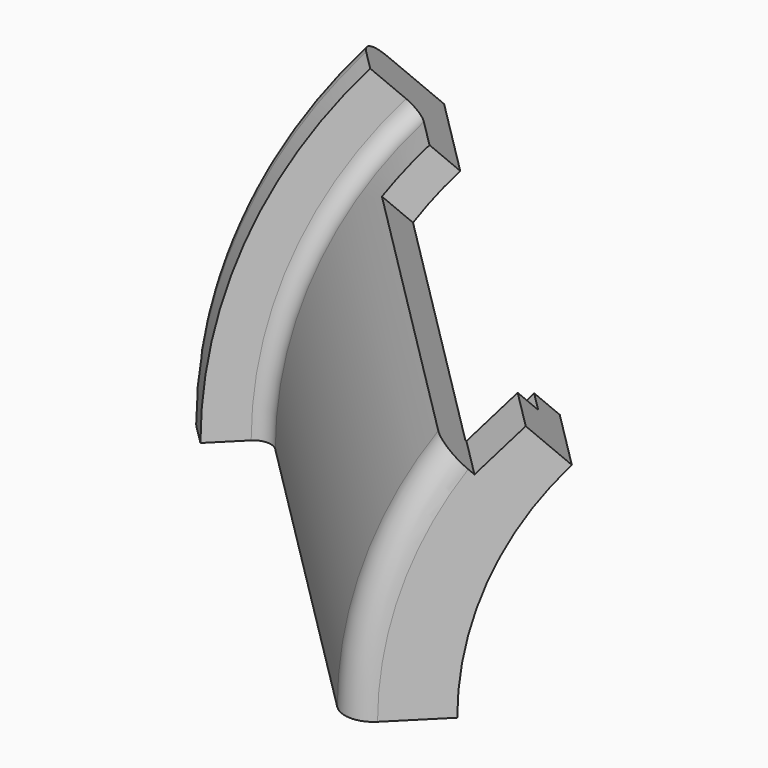
from build123d import *

# Parameters (mm, degrees)
BOX007_W               = 100
BOX007_H               = 100
BOX007_DEPTH           = 100
BOX006_W               = 100
BOX006_H               = 100
BOX006_DEPTH           = 100
BOX006_PLACEMENT_ANGLE = 90
BOX005_W               = 200
BOX005_H               = 200
BOX005_DEPTH           = 100
BOX004_W               = 20
BOX004_H               = 20
BOX004_DEPTH           = 80
BOX003_W               = 20
BOX003_H               = 20
BOX003_DEPTH           = 80
BOX002_W               = 10
BOX002_H               = 25
BOX002_DEPTH           = 35
BOX002_PITCH_ANGLE     = -15
BOX001_W               = 10
BOX001_H               = 25
BOX001_DEPTH           = 35
BOX001_PITCH_ANGLE     = 15
BOX_W                  = 20
BOX_H                  = 25
BOX_DEPTH              = 35
CYLINDER005_R          = 10
CYLINDER005_DEPTH      = 180
CYLINDER005_ROLL_ANGLE = 90
CYLINDER004_R          = 54
CYLINDER004_DEPTH      = 100
CYLINDER003_R          = 59
CYLINDER003_DEPTH      = 10
CYLINDER002_R          = 64
CYLINDER002_DEPTH      = 85
CYLINDER001_R          = 70
CYLINDER001_DEPTH      = 90
CYLINDER_R             = 80
CYLINDER_DEPTH         = 10
FILLET_R               = 3
FILLET001_R            = 5
FILLET002_R            = 5
CUT007_ROLL_ANGLE      = 90
CUT007_PITCH_ANGLE     = 45
CUT007_PLACEMENT_ANGLE = 45
CUT008_ROLL_ANGLE      = -90
CUT008_PITCH_ANGLE     = -45
CUT008_PLACEMENT_ANGLE = 45
CUT010_ROLL_ANGLE      = 90
CUT010_PITCH_ANGLE     = 45
CUT010_PLACEMENT_ANGLE = 45


with BuildPart() as cube004:
    # Box007 → Box007 (new body)
    with BuildSketch(Plane.XY):
        with Locations((50, 50)):
            Rectangle(BOX007_W, BOX007_H)
    extrude(amount=BOX007_DEPTH)


with BuildPart() as cube003:
    # Box006 → Box006 (new body)
    with BuildSketch(Plane.XY):
        with Locations((50, 50)):
            Rectangle(BOX006_W, BOX006_H)
    extrude(amount=BOX006_DEPTH)


with BuildPart() as cube003_1:
    # Box006 placement: moved
    add(cube003.part.rotate(Axis((0, 0, 0), (0, 0, 1)), BOX006_PLACEMENT_ANGLE))


with BuildPart() as cube002:
    # Box005 → Box005 (new body)
    with BuildSketch(Plane(origin=(-70, -120, -100), x_dir=(1, 0, 0), z_dir=(0, 0, 1))):
        with Locations((100, 100)):
            Rectangle(BOX005_W, BOX005_H)
    extrude(amount=BOX005_DEPTH)


with BuildPart() as tab_cut_l:
    # Box004 → Box004 (new body)
    with BuildSketch(Plane(origin=(-83, -10, 20), x_dir=(1, 0, 0), z_dir=(0, 0, 1))):
        with Locations((10, 10)):
            Rectangle(BOX004_W, BOX004_H)
    extrude(amount=BOX004_DEPTH)


with BuildPart() as tab_cut_r:
    # Box003 → Box003 (new body)
    with BuildSketch(Plane(origin=(63, -10, 20), x_dir=(1, 0, 0), z_dir=(0, 0, 1))):
        with Locations((10, 10)):
            Rectangle(BOX003_W, BOX003_H)
    extrude(amount=BOX003_DEPTH)


with BuildPart() as cube001:
    # Box002 → Box002 (new body)
    with BuildSketch(Plane.XY):
        with Locations((5, 12.5)):
            Rectangle(BOX002_W, BOX002_H)
    extrude(amount=BOX002_DEPTH)


with BuildPart() as cube001_1:
    # Box002 pitch: moved
    add(cube001.part.rotate(Axis((0, 0, 0), (0, 1, 0)), BOX002_PITCH_ANGLE))


with BuildPart() as cube001_2:
    # Box002 placement: moved
    add(cube001_1.part.moved(Location((-9.95, 48, 64))))


with BuildPart() as cube:
    # Box001 → Box001 (new body)
    with BuildSketch(Plane.XY):
        with Locations((5, 12.5)):
            Rectangle(BOX001_W, BOX001_H)
    extrude(amount=BOX001_DEPTH)


with BuildPart() as cube_1:
    # Box001 pitch: moved
    add(cube.part.rotate(Axis((0, 0, 0), (0, 1, 0)), BOX001_PITCH_ANGLE))


with BuildPart() as cube_2:
    # Box001 placement: moved
    add(cube_1.part.moved(Location((0, 48, 65))))


with BuildPart() as bearing_slot:
    # Box → Box (new body)
    with BuildSketch(Plane(origin=(-10, 48, 65), x_dir=(1, 0, 0), z_dir=(0, 0, 1))):
        with Locations((10, 12.5)):
            Rectangle(BOX_W, BOX_H)
    extrude(amount=BOX_DEPTH)


with BuildPart() as bearing_holes:
    # Cylinder005 → Cylinder005 (new body)
    with BuildSketch(Plane.XY):
        Circle(CYLINDER005_R)
    extrude(amount=CYLINDER005_DEPTH)


with BuildPart() as bearing_holes_1:
    # Cylinder005 roll: moved
    add(bearing_holes.part.rotate(Axis((0, 0, 0), (1, 0, 0)), CYLINDER005_ROLL_ANGLE))


with BuildPart() as bearing_holes_2:
    # Cylinder005 placement: moved
    add(bearing_holes_1.part.moved(Location((0, 90, 65))))


with BuildPart() as through_hole:
    # Cylinder004 → Cylinder004 (new body)
    with BuildSketch(Plane.XY):
        Circle(CYLINDER004_R)
    extrude(amount=CYLINDER004_DEPTH)


with BuildPart() as inner_lip:
    # Cylinder003 → Cylinder003 (new body)
    with BuildSketch(Plane.XY.offset(80)):
        Circle(CYLINDER003_R)
    extrude(amount=CYLINDER003_DEPTH)


with BuildPart() as inner_hole:
    # Cylinder002 → Cylinder002 (new body)
    with BuildSketch(Plane.XY):
        Circle(CYLINDER002_R)
    extrude(amount=CYLINDER002_DEPTH)


with BuildPart() as body_cylinder:
    # Cylinder001 → Cylinder001 (new body)
    with BuildSketch(Plane.XY.offset(5)):
        Circle(CYLINDER001_R)
    extrude(amount=CYLINDER001_DEPTH)


with BuildPart() as cut010:
    # Cylinder → Cylinder (new body)
    with BuildSketch(Plane.XY):
        Circle(CYLINDER_R)
    extrude(amount=CYLINDER_DEPTH)

    # Fusion: union Body_Cylinder
    add(body_cylinder.part)

    # Cut: cut Inner_Hole
    add(inner_hole.part, mode=Mode.SUBTRACT)

    # Fusion001: union Inner_Lip
    add(inner_lip.part)

    # Cut001: cut Through_Hole
    add(through_hole.part, mode=Mode.SUBTRACT)

    # Fillet
    fillet_edges = [cut010.edges().sort_by_distance(p)[0] for p in [
        (-70, 0, 10),
    ]]
    fillet(fillet_edges, radius=FILLET_R)

    # Fillet001
    fillet001_edges = [cut010.edges().sort_by_distance(p)[0] for p in [
        (-80, 0, 0),
    ]]
    fillet(fillet001_edges, radius=FILLET001_R)

    # Fillet002
    fillet002_edges = [cut010.edges().sort_by_distance(p)[0] for p in [
        (-70, 0, 95),
    ]]
    fillet(fillet002_edges, radius=FILLET002_R)

    # Cut002: cut Bearing_Holes
    add(bearing_holes_2.part, mode=Mode.SUBTRACT)

    # Cut003: cut Bearing_Slot
    add(bearing_slot.part, mode=Mode.SUBTRACT)

    # Cut004: cut Cube
    add(cube_2.part, mode=Mode.SUBTRACT)

    # Cut005: cut Cube001
    add(cube001_2.part, mode=Mode.SUBTRACT)

    # Cut006: cut Tab_Cut_R
    add(tab_cut_r.part, mode=Mode.SUBTRACT)

    # Cut007: cut Tab_Cut_L
    add(tab_cut_l.part, mode=Mode.SUBTRACT)


with BuildPart() as cut010_1:
    # Cut007 roll: moved
    add(cut010.part.rotate(Axis((0, 0, 0), (1, 0, 0)), CUT007_ROLL_ANGLE))


with BuildPart() as cut010_2:
    # Cut007 pitch: moved
    add(cut010_1.part.rotate(Axis((0, 0, 0), (0, 1, 0)), CUT007_PITCH_ANGLE))


with BuildPart() as cut010_3:
    # Cut007 placement: moved
    add(cut010_2.part.rotate(Axis((0, 0, 0), (0, 0, 1)), CUT007_PLACEMENT_ANGLE))

    # Cut008: cut Cube002
    add(cube002.part, mode=Mode.SUBTRACT)


with BuildPart() as cut010_4:
    # Cut008 roll: moved
    add(cut010_3.part.rotate(Axis((0, 0, 0), (1, 0, 0)), CUT008_ROLL_ANGLE))


with BuildPart() as cut010_5:
    # Cut008 pitch: moved
    add(cut010_4.part.rotate(Axis((0, 0, 0), (0, 1, 0)), CUT008_PITCH_ANGLE))


with BuildPart() as cut010_6:
    # Cut008 placement: moved
    add(cut010_5.part.rotate(Axis((0, 0, 0), (0, 0, 1)), CUT008_PLACEMENT_ANGLE))

    # Cut009: cut Cube003
    add(cube003_1.part, mode=Mode.SUBTRACT)

    # Cut010: cut Cube004
    add(cube004.part, mode=Mode.SUBTRACT)


with BuildPart() as cut010_7:
    # Cut010 roll: moved
    add(cut010_6.part.rotate(Axis((0, 0, 0), (1, 0, 0)), CUT010_ROLL_ANGLE))


with BuildPart() as cut010_8:
    # Cut010 pitch: moved
    add(cut010_7.part.rotate(Axis((0, 0, 0), (0, 1, 0)), CUT010_PITCH_ANGLE))


with BuildPart() as cut010_9:
    # Cut010 placement: moved
    add(cut010_8.part.rotate(Axis((0, 0, 0), (0, 0, 1)), CUT010_PLACEMENT_ANGLE))


solid = cut010_9.part
